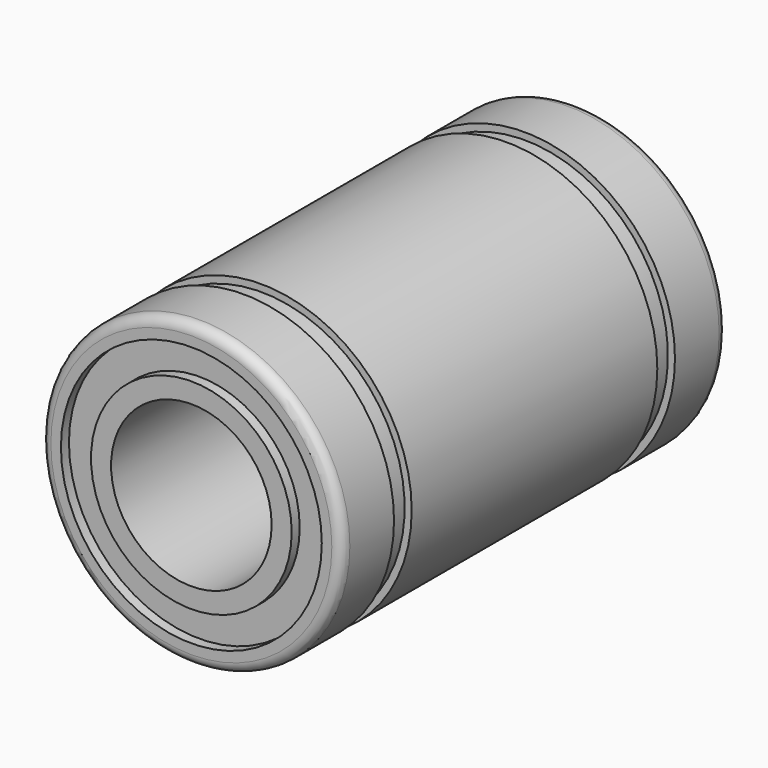
from build123d import *

# Parameters (mm, degrees)
F0_R     = 7.5
F0_R_2   = 4
F1_DEPTH = 12
F2_W     = 1
F2_H     = 1.1
F4_R     = 6.5
F4_R_2   = 5
F5_DEPTH = 0.5
F6_R     = 6.5
F6_R_2   = 5
F7_DEPTH = 0.5
F8_R     = 0.5


with BuildPart() as f1:
    # F0 (on Front) → F1 (new body, symmetric)
    with BuildSketch(Plane.XZ):
        Circle(F0_R)
        Circle(F0_R_2, mode=Mode.SUBTRACT)
    extrude(amount=F1_DEPTH, both=True)

    # F2 (on Top) → F3 (revolve, cut)
    with BuildSketch(Plane.XY):
        with Locations((-7.65, 8.2)):
            Rectangle(F2_W, F2_H)
        with Locations((-7.65, -8.2)):
            Rectangle(F2_W, F2_H)
    revolve(axis=Axis((0, 10.336502, 0), (0, 1, 0)), mode=Mode.SUBTRACT)

    # F4 (on face) → F5 (cut)
    with BuildSketch(Plane.XZ.offset(12)):
        Circle(F4_R)
        Circle(F4_R_2, mode=Mode.SUBTRACT)
    extrude(amount=-F5_DEPTH, mode=Mode.SUBTRACT)

    # F6 (on face) → F7 (cut)
    with BuildSketch(Plane(origin=(0, 12, 0), x_dir=(-1, 0, 0), z_dir=(0, 1, 0))):
        Circle(F6_R)
        Circle(F6_R_2, mode=Mode.SUBTRACT)
    extrude(amount=-F7_DEPTH, mode=Mode.SUBTRACT)

    # F8
    f8_edges = [f1.edges().sort_by_distance(p)[0] for p in [
        (-7.5, 12, 0),
        (-7.5, -12, 0),
    ]]
    fillet(f8_edges, radius=F8_R)


solid = f1.part
